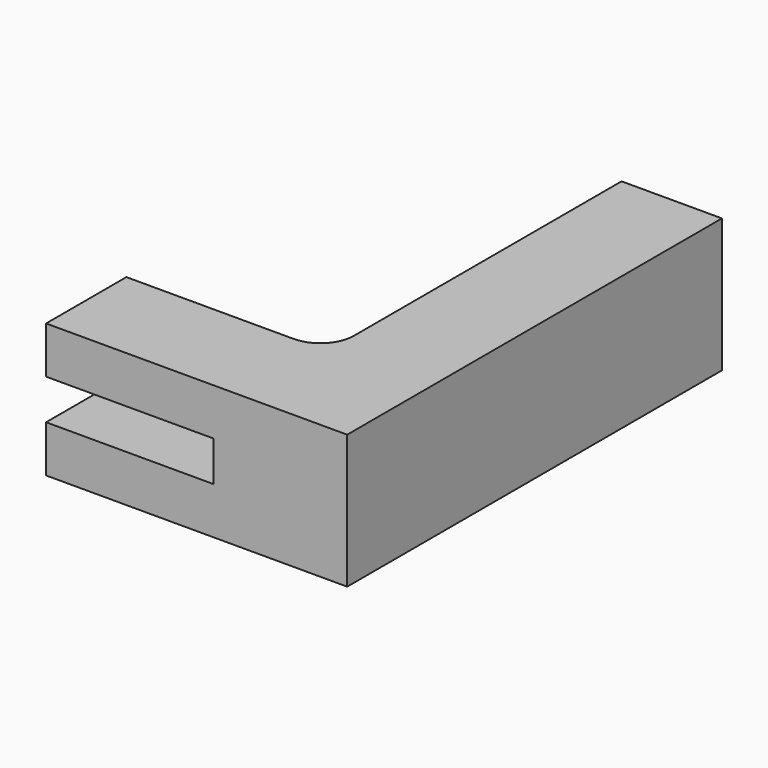
from build123d import *

# Parameters (mm, degrees)
F1_DEPTH = 20
F2_R     = 6
F3_DEPTH = 40
F4_R     = 6
F5_DEPTH = 61
F6_W     = 25
F6_H     = 6
F7_DEPTH = 25


with BuildPart() as f1:
    # F0 (on Top) → F1 (new body)
    with BuildSketch(Plane.XY):
        with BuildLine():
            Line((22.5, 35), (7.5, 35))
            Line((7.5, 35), (7.5, -15))
            ThreePointArc((7.5, -15), (6.035534, -18.535534), (2.5, -20))
            Line((2.5, -20), (-22.5, -20))
            Line((-22.5, -20), (-22.5, -35))
            Line((-22.5, -35), (22.5, -35))
            Line((22.5, -35), (22.5, 35))
        make_face()
    extrude(amount=F1_DEPTH)

    # F2 (on face) → F3 (cut)
    with BuildSketch(Plane(origin=(-22.5, 0, 0), x_dir=(0, -1, 0), z_dir=(-1, 0, 0))):
        with Locations((20, 10)):
            Circle(F2_R)
    extrude(amount=-F3_DEPTH, mode=Mode.SUBTRACT)

    # F4 (on face) → F5 (cut)
    with BuildSketch(Plane(origin=(0, 35, 0), x_dir=(-1, 0, 0), z_dir=(0, 1, 0))):
        with Locations((-7.5, 10)):
            Circle(F4_R)
    extrude(amount=-F5_DEPTH, mode=Mode.SUBTRACT)

    # F6 (on face) → F7 (cut)
    with BuildSketch(Plane.XZ.offset(35)):
        with Locations((-10, 10)):
            Rectangle(F6_W, F6_H)
    extrude(amount=-F7_DEPTH, mode=Mode.SUBTRACT)


solid = f1.part
